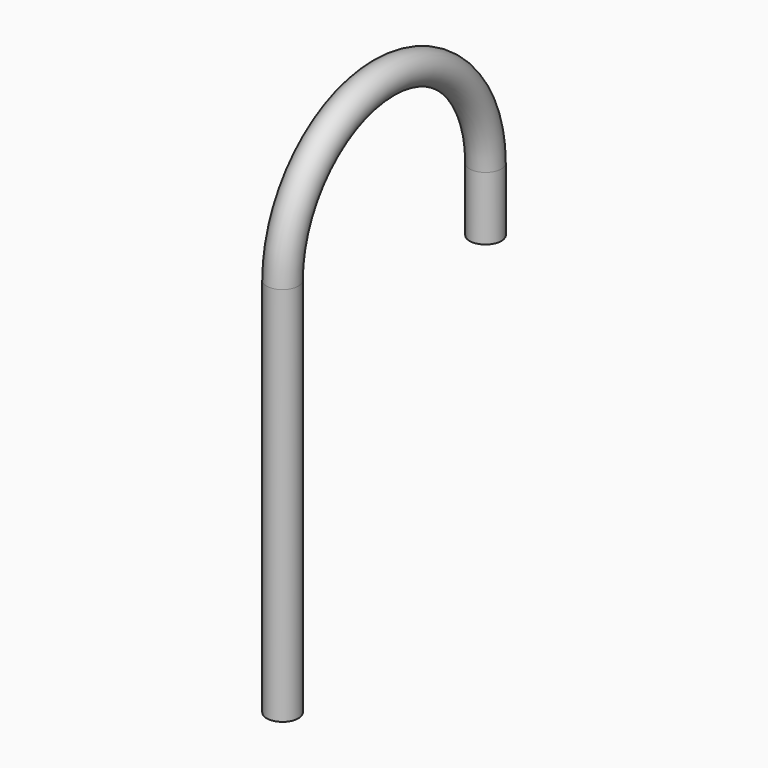
from build123d import *

# Parameters (mm, degrees)
F1_R   = 6.35
F1_R_2 = 4.587099


with BuildPart() as f2:
    # F2: sweep along a path in F0
    with BuildLine(Plane.YZ) as f2_path:
        Line((0, 0), (0, 25.4))
        ThreePointArc((0, 25.4), (-50.8, 76.2), (-101.6, 25.4))
        Line((-101.6, 25.4), (-101.6, -127))
    # F1 (on Top) → F2 (sweep)
    with BuildSketch(Plane.XY):
        Circle(F1_R)
        Circle(F1_R_2, mode=Mode.SUBTRACT)
    sweep(path=f2_path.line)


solid = f2.part
